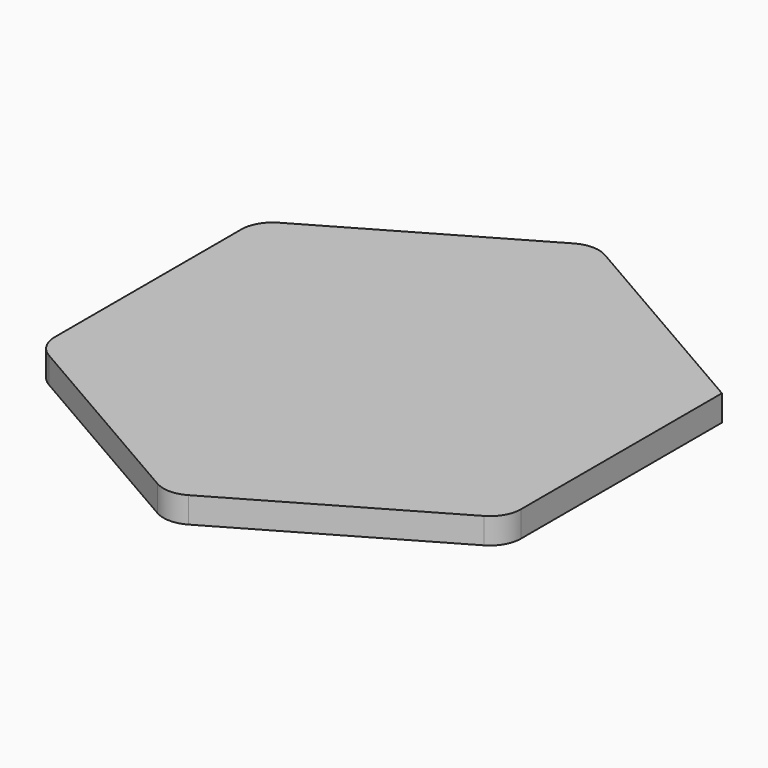
from build123d import *

# Parameters (mm, degrees)
F1_DEPTH = 5


with BuildPart() as f1:
    # F0 (on Top) → F1 (new body)
    with BuildSketch(Plane.XY):
        with BuildLine():
            Line((45, 25.980762), (3, 50.229473))
            ThreePointArc((3, 50.229473), (0, 51.033321), (-3, 50.229473))
            Line((-3, 50.229473), (-42, 27.712813))
            ThreePointArc((-42, 27.712813), (-44.196152, 25.51666), (-45, 22.51666))
            Line((-45, 22.51666), (-45, -22.51666))
            ThreePointArc((-45, -22.51666), (-44.196152, -25.51666), (-42, -27.712813))
            Line((-42, -27.712813), (-3, -50.229473))
            ThreePointArc((-3, -50.229473), (0, -51.033321), (3, -50.229473))
            Line((3, -50.229473), (42, -27.712813))
            ThreePointArc((42, -27.712813), (44.196152, -25.51666), (45, -22.51666))
            Line((45, -22.51666), (45, 25.980762))
        make_face()
    extrude(amount=F1_DEPTH)


solid = f1.part
